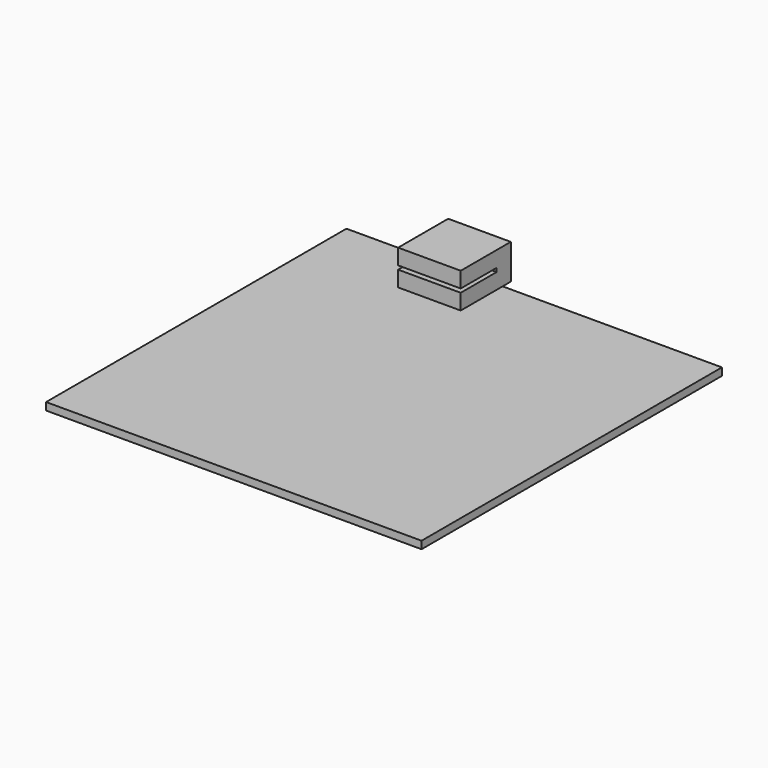
from build123d import *

# Parameters (mm, degrees)
F0_W     = 304.8
F0_H     = 304.8
F1_DEPTH = 6.096
F2_W     = 50.8
F2_H     = 50.8
F3_DEPTH = 12.7
F4_W     = 50.8
F4_H     = 14.360239
F5_DEPTH = 3.048
F6_W     = 50.8
F6_H     = 50.8
F7_DEPTH = 12.7


with BuildPart() as f1:
    # F0 (on Top) → F1 (new body)
    with BuildSketch(Plane.XY):
        Rectangle(F0_W, F0_H)
    extrude(amount=F1_DEPTH)


with BuildPart() as f3:
    # F2 (on face) → F3 (new body)
    with BuildSketch(Plane.XY.offset(6.096)):
        with Locations((-51.016573, 135.264951)):
            Rectangle(F2_W, F2_H)
    extrude(amount=F3_DEPTH)

    # F4 (on face) → F5 (join)
    with BuildSketch(Plane.XY.offset(18.796)):
        with Locations((-51.016573, 153.484831)):
            Rectangle(F4_W, F4_H)
    extrude(amount=F5_DEPTH)

    # F6 (on face) → F7 (join)
    with BuildSketch(Plane.XY.offset(21.844)):
        with Locations((-51.016573, 135.264951)):
            Rectangle(F6_W, F6_H)
    extrude(amount=F7_DEPTH)


solid = Compound([f1.part, f3.part])
